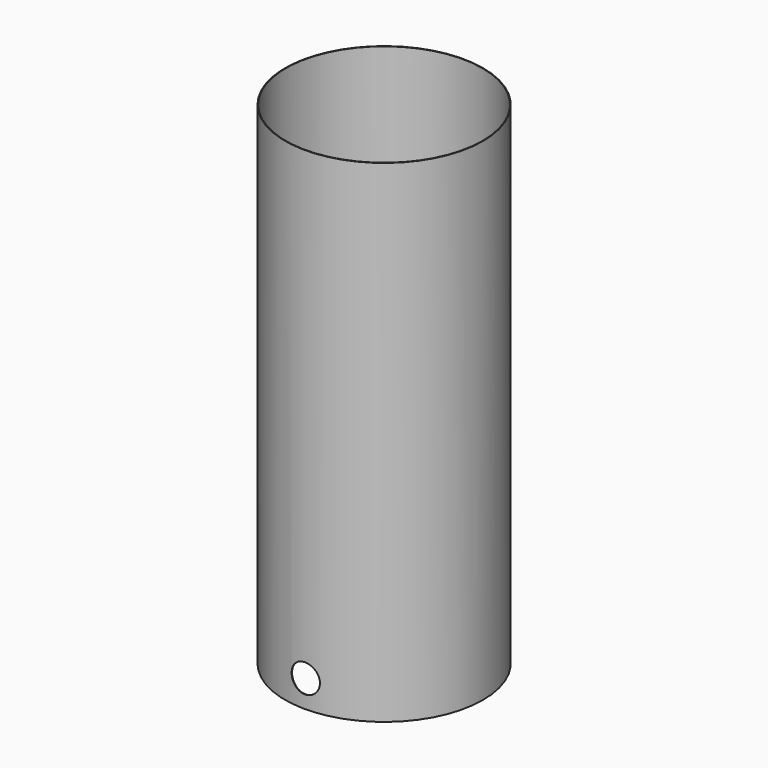
from build123d import *

# Parameters (mm, degrees)
F0_R      = 402
F0_R_2    = 400
F1_DEPTH  = 2000
F2_R      = 57.5
F3_DEPTH  = 500
F3_FACE_R = 57.5
F4_DEPTH  = 500


with BuildPart() as f1:
    # F0 (on Top) → F1 (new body)
    with BuildSketch(Plane.XY):
        Circle(F0_R)
        Circle(F0_R_2, mode=Mode.SUBTRACT)
    extrude(amount=F1_DEPTH)

    # F2 (on Front) → F3 (join)
    with BuildSketch(Plane.XZ):
        with Locations((0, 110)):
            Circle(F2_R)
    extrude(amount=F3_DEPTH)

    # F3_face (on face) → F4 (cut, through all)
    with BuildSketch(Plane(origin=(0, -500, 110), x_dir=(1, 0, 0), z_dir=(0, -1, 0))):
        Circle(F3_FACE_R)
    extrude(amount=-F4_DEPTH, mode=Mode.SUBTRACT)


solid = f1.part
